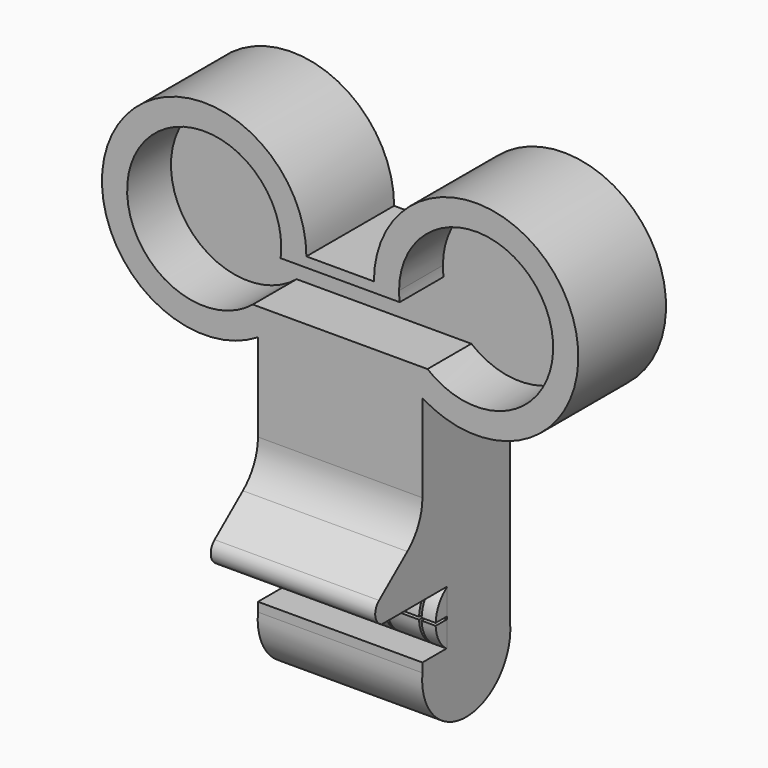
from build123d import *

# Parameters (mm, degrees)
F1_DEPTH  = 25.4
F3_DEPTH  = 38.1
F5_DEPTH  = 38.1
F4_W      = 6.9873932093
F4_H      = 12.5755788758
F6_DEPTH  = 74.2380387742
F10_DEPTH = 19.1516
F12_DEPTH = 12.7
F14_W     = 3.3459962718
F14_H     = 0.297806253
F14_W_2   = 0.595612506
F14_W_3   = 7.4709270083
F14_H_2   = 5.9899831849
F14_W_4   = 6.8456454549
F14_W_5   = 6.9815108719
F14_W_6   = 7.4240169587
F14_W_7   = 3.2570409043
F15_DEPTH = 3.2512
F16_R     = 11.8404858978


with BuildPart() as f1:
    # F0 (on Front) → F1 (new body)
    with BuildSketch(Plane.XZ):
        with BuildLine():
            Line((1.8669807536, 56.3211729646), (-13.7737724727, 56.3211729646))
            ThreePointArc((-13.7737724727, 56.3211729646), (-58.1397054496, 67.8494936223), (-24.9982573971, 36.1811717994))
            Line((-24.9982573971, 36.1811717994), (-24.9982573971, -19.8788270354))
            Line((-24.9982573971, -19.8788270354), (13.1017426029, -19.8788270354))
            Line((13.1017426029, -19.8788270354), (13.1017426029, 36.1748193053))
            ThreePointArc((13.1017426029, 36.1748193053), (46.2299722184, 67.8547699704), (1.8669807536, 56.3211729646))
        make_face()
        with BuildLine():
            ThreePointArc((-26.1908572696, 42.4751723279), (-53.0432504616, 65.0145085437), (-19.7552210705, 54.0154269254))
            Line((-19.7552210705, 54.0154269254), (7.8484293514, 54.0154269254))
            ThreePointArc((7.8484293514, 54.0154269254), (41.1364587425, 65.0145085437), (14.2840655504, 42.4751723279))
            Line((14.2840655504, 42.4751723279), (-26.1908572696, 42.4751723279))
        make_face(mode=Mode.SUBTRACT)
        with BuildLine():
            Line((7.8484293514, 54.0154269254), (-19.7552210705, 54.0154269254))
            ThreePointArc((-19.7552210705, 54.0154269254), (-53.0432504616, 65.0145085437), (-26.1908572696, 42.4751723279))
            Line((-26.1908572696, 42.4751723279), (14.2840655504, 42.4751723279))
            ThreePointArc((14.2840655504, 42.4751723279), (41.1364587425, 65.0145085437), (7.8484293514, 54.0154269254))
        make_face()
    extrude(amount=F1_DEPTH)

    # F2 (on face) → F3 (join, through all)
    with BuildSketch(Plane.YZ.offset(13.1017426029)):
        with BuildLine():
            Line((0, -19.8788270354), (-25.4, -19.8788270354))
            ThreePointArc((-25.4, -19.8788270354), (-12.7, -34.0406843529), (0, -19.8788270354))
        make_face()
    extrude(amount=-F3_DEPTH)

    # F4 (on face) → F5 (join, through all)
    with BuildSketch(Plane.YZ.offset(13.1017426029)):
        with BuildLine():
            Line((-25.4, -5.1776664332), (-25.4, 10.2089252323))
            Line((-25.4, 10.2089252323), (-37.9417426884, 0))
            ThreePointArc((-37.9417426884, 0), (-39.036129938, -2.7980343054), (-37.202000618, -5.1776664332))
            Line((-37.202000618, -5.1776664332), (-25.4, -5.1776664332))
        make_face()
    extrude(amount=-F5_DEPTH)

    # F4 (on face) → F6 (cut, through all)
    with BuildSketch(Plane.YZ.offset(13.1017426029)):
        with Locations((-21.9063033953, -11.4654558711)):
            Rectangle(F4_W, F4_H)
    extrude(amount=-F6_DEPTH, mode=Mode.SUBTRACT)

    # F9 (on line) → F10 (join, symmetric)
    with BuildSketch(Plane(origin=(-5.9482573971, 0, 0), x_dir=(0, -1, 0), z_dir=(-1, 0, 0))):
        with BuildLine():
            ThreePointArc((18.4126067907, -17.753245309), (21.6845212051, -11.4654558711), (18.4126067907, -5.1776664332))
            Line((18.4126067907, -5.1776664332), (18.4126067907, -17.753245309))
        make_face()
    extrude(amount=F10_DEPTH, both=True)

    # F11 (on face) → F12 (cut)
    with BuildSketch(Plane.XZ.offset(25.4)):
        with BuildLine():
            Line((-26.1908572696, 42.4751723279), (-24.9982573971, 42.4751723279))
            Line((-24.9982573971, 42.4751723279), (13.1017426029, 42.4751723279))
            Line((13.1017426029, 42.4751723279), (14.2840655504, 42.4751723279))
            ThreePointArc((14.2840655504, 42.4751723279), (41.6664593623, 63.9872752599), (7.6988727683, 56.3211729646))
            ThreePointArc((7.6988727683, 56.3211729646), (7.736301157, 55.1658773348), (7.8484293514, 54.0154269254))
            Line((7.8484293514, 54.0154269254), (-19.7552210705, 54.0154269254))
            ThreePointArc((-19.7552210705, 54.0154269254), (-19.6430928761, 55.1658773348), (-19.6056644874, 56.3211729646))
            ThreePointArc((-19.6056644874, 56.3211729646), (-53.5732510815, 63.9872752599), (-26.1908572696, 42.4751723279))
        make_face()
    extrude(amount=-F12_DEPTH, mode=Mode.SUBTRACT)

    # F14 (on line) → F15 (cut)
    with BuildSketch(Plane.XZ.offset(21.6845212051)):
        with Locations((-23.4268592612, -11.3165527446)):
            Rectangle(F14_W, F14_H)
        with Locations((-23.4268592612, -11.6143589976)):
            Rectangle(F14_W, F14_H)
        with Locations((-21.4560548723, -11.3165527446)):
            Rectangle(F14_W_2, F14_H)
        with Locations((-21.4560548723, -11.6143589976)):
            Rectangle(F14_W_2, F14_H)
        with Locations((-17.4227851151, -11.3165527446)):
            Rectangle(F14_W_3, F14_H)
        with Locations((-17.4227851151, -11.6143589976)):
            Rectangle(F14_W_3, F14_H)
        with Locations((-21.4560548723, -8.1726580256)):
            Rectangle(F14_W_2, F14_H_2)
        with Locations((-21.4560548723, -14.7582537165)):
            Rectangle(F14_W_2, F14_H_2)
        with Locations((-13.389515358, -11.3165527446)):
            Rectangle(F14_W_2, F14_H)
        with Locations((-13.389515358, -11.6143589976)):
            Rectangle(F14_W_2, F14_H)
        with Locations((-9.6688863776, -11.3165527446)):
            Rectangle(F14_W_4, F14_H)
        with Locations((-9.6688863776, -11.6143589976)):
            Rectangle(F14_W_4, F14_H)
        with Locations((-13.389515358, -8.1726580256)):
            Rectangle(F14_W_2, F14_H_2)
        with Locations((-13.389515358, -14.7582537165)):
            Rectangle(F14_W_2, F14_H_2)
        with Locations((-5.9482573971, -11.3165527446)):
            Rectangle(F14_W_2, F14_H)
        with Locations((-5.9482573971, -11.6143589976)):
            Rectangle(F14_W_2, F14_H)
        with Locations((-2.1596957082, -11.3165527446)):
            Rectangle(F14_W_5, F14_H)
        with Locations((-2.1596957082, -11.6143589976)):
            Rectangle(F14_W_5, F14_H)
        with Locations((-5.9482573971, -8.1726580256)):
            Rectangle(F14_W_2, F14_H_2)
        with Locations((-5.9482573971, -14.7582537165)):
            Rectangle(F14_W_2, F14_H_2)
        with Locations((1.6288659808, -11.3165527446)):
            Rectangle(F14_W_2, F14_H)
        with Locations((1.6288659808, -11.6143589976)):
            Rectangle(F14_W_2, F14_H)
        with Locations((5.6386807132, -11.3165527446)):
            Rectangle(F14_W_6, F14_H)
        with Locations((5.6386807132, -11.6143589976)):
            Rectangle(F14_W_6, F14_H)
        with Locations((1.6288659808, -8.1726580256)):
            Rectangle(F14_W_2, F14_H_2)
        with Locations((1.6288659808, -14.7582537165)):
            Rectangle(F14_W_2, F14_H_2)
        with Locations((9.6484954455, -11.3165527446)):
            Rectangle(F14_W_2, F14_H)
        with Locations((9.6484954455, -11.6143589976)):
            Rectangle(F14_W_2, F14_H)
        with Locations((11.5748221507, -11.3165527446)):
            Rectangle(F14_W_7, F14_H)
        with Locations((11.5748221507, -11.6143589976)):
            Rectangle(F14_W_7, F14_H)
        with Locations((9.6484954455, -8.1726580256)):
            Rectangle(F14_W_2, F14_H_2)
        with Locations((9.6484954455, -14.7582537165)):
            Rectangle(F14_W_2, F14_H_2)
    extrude(amount=-F15_DEPTH, mode=Mode.SUBTRACT)

    # F16
    f16_edges = [f1.edges().sort_by_distance(p)[0] for p in [
        (-5.948257, -25.4, 10.208925),
    ]]
    fillet(f16_edges, radius=F16_R)


solid = f1.part
